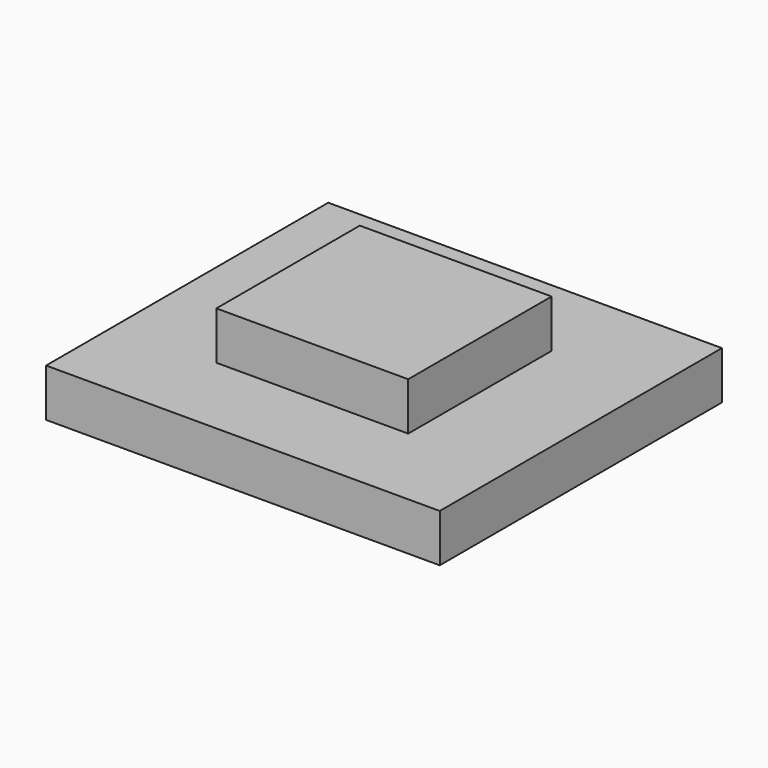
from build123d import *

# Parameters (mm, degrees)
F0_W     = 208.868966
F0_H     = 187.117338
F0_W_2   = 91.582886
F0_H_2   = 78.801386
F1_DEPTH = 25.4
F2_W     = 101.766586
F2_H     = 95.096872
F3_DEPTH = 25.4


with BuildPart() as f1:
    # F0 (on Top) → F1 (new body)
    with BuildSketch(Plane.XY):
        Rectangle(F0_W, F0_H)
        Rectangle(F0_W_2, F0_H_2, mode=Mode.SUBTRACT)
        Rectangle(F0_W_2, F0_H_2)
    extrude(amount=F1_DEPTH)

    # F2 (on face) → F3 (join)
    with BuildSketch(Plane.XY.offset(25.4)):
        Rectangle(F2_W, F2_H)
    extrude(amount=F3_DEPTH)


solid = f1.part
